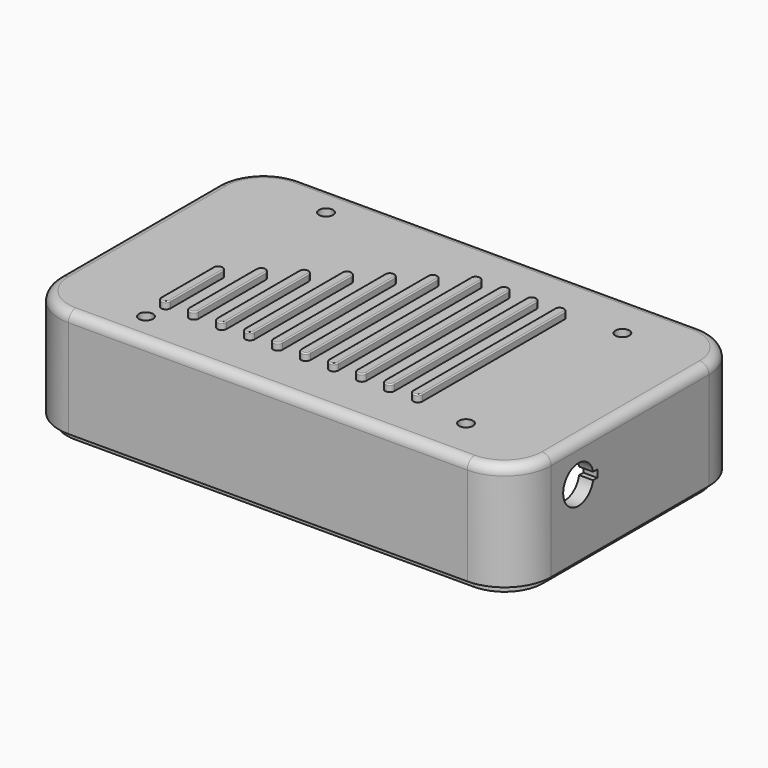
from build123d import *

# Parameters (mm, degrees)
PAD004_DEPTH    = 20
PAD005_DEPTH    = 1.75
PAD006_DEPTH    = 3
SKETCH010_R     = 1.5
POCKET007_DEPTH = 3
SKETCH013_R     = 2.5
POCKET008_DEPTH = 3
POCKET009_DEPTH = 3
PAD009_DEPTH    = 1.5
FILLET_R        = 2
FILLET002_R     = 0.25


with BuildPart() as part:
    # Sketch007 → Pad004 (new body)
    with BuildSketch(Plane.XY.offset(9)):
        with BuildLine():
            Line((3.5, 58.5), (89, 58.5))
            ThreePointArc((99, 48.5), (96.071068, 55.571068), (89, 58.5))
            Line((99, 48.5), (99, 6.25))
            ThreePointArc((89, -3.75), (96.071068, -0.821068), (99, 6.25))
            Line((89, -3.75), (3.5, -3.75))
            ThreePointArc((-6.5, 6.25), (-3.571068, -0.821068), (3.5, -3.75))
            Line((-6.5, 6.25), (-6.5, 48.5))
            ThreePointArc((3.5, 58.5), (-3.571068, 55.571068), (-6.5, 48.5))
        make_face()
        with BuildLine():
            Line((3.5, 55.5), (89, 55.5))
            ThreePointArc((96, 48.5), (93.949747, 53.449747), (89, 55.5))
            Line((96, 48.5), (96, 6.25))
            ThreePointArc((89, -0.75), (93.949747, 1.300253), (96, 6.25))
            Line((89, -0.75), (3.5, -0.75))
            ThreePointArc((-3.5, 6.25), (-1.449747, 1.300253), (3.5, -0.75))
            Line((-3.5, 6.25), (-3.5, 48.5))
            ThreePointArc((3.5, 55.5), (-1.449747, 53.449747), (-3.5, 48.5))
        make_face(mode=Mode.SUBTRACT)
    extrude(amount=PAD004_DEPTH)

    # Sketch008 → Pad005 (new body)
    with BuildSketch(Plane(origin=(0, 0, 9), x_dir=(1, 0, 0), z_dir=(0, 0, -1))):
        with BuildLine():
            Line((3.5, 2), (89, 2))
            ThreePointArc((97.25, -6.25), (94.833631, -0.416369), (89, 2))
            Line((97.25, -6.25), (97.25, -48.5))
            ThreePointArc((89, -56.75), (94.833631, -54.333631), (97.25, -48.5))
            Line((89, -56.75), (3.5, -56.75))
            ThreePointArc((-4.75, -48.5), (-2.333631, -54.333631), (3.5, -56.75))
            Line((-4.75, -48.5), (-4.75, -6.25))
            ThreePointArc((3.5, 2), (-2.333631, -0.416369), (-4.75, -6.25))
        make_face()
        with BuildLine():
            Line((3.5, 0.75), (89, 0.75))
            ThreePointArc((96, -6.25), (93.949747, -1.300253), (89, 0.75))
            Line((96, -6.25), (96, -48.5))
            ThreePointArc((89, -55.5), (93.949747, -53.449747), (96, -48.5))
            Line((89, -55.5), (3.5, -55.5))
            ThreePointArc((-3.5, -48.5), (-1.449747, -53.449747), (3.5, -55.5))
            Line((-3.5, -48.5), (-3.5, -6.25))
            ThreePointArc((3.5, 0.75), (-1.449747, -1.300253), (-3.5, -6.25))
        make_face(mode=Mode.SUBTRACT)
    extrude(amount=PAD005_DEPTH)

    # Sketch009 → Pad006 (new body)
    with BuildSketch(Plane.XY.offset(29)):
        with BuildLine():
            Line((3.5, 58.5), (89, 58.5))
            ThreePointArc((99, 48.5), (96.071068, 55.571068), (89, 58.5))
            Line((99, 48.5), (99, 6.25))
            ThreePointArc((89, -3.75), (96.071068, -0.821068), (99, 6.25))
            Line((89, -3.75), (3.5, -3.75))
            ThreePointArc((-6.5, 6.25), (-3.571068, -0.821068), (3.5, -3.75))
            Line((-6.5, 6.25), (-6.5, 48.5))
            ThreePointArc((3.5, 58.5), (-3.571068, 55.571068), (-6.5, 48.5))
        make_face()
    extrude(amount=PAD006_DEPTH)

    # Sketch010 → Pocket007 (cut)
    with BuildSketch(Plane.XY.offset(32)):
        with Locations((14.6, 3.15)):
            Circle(SKETCH010_R)
        with Locations((14.6, 51.4)):
            Circle(SKETCH010_R)
        with Locations((80.65, 48.25)):
            Circle(SKETCH010_R)
        with Locations((80.65, 6.35)):
            Circle(SKETCH010_R)
    extrude(amount=-POCKET007_DEPTH, mode=Mode.SUBTRACT)

    # Sketch013 → Pocket008 (cut)
    with BuildSketch(Plane(origin=(-6.5, 0, 9), x_dir=(0, -1, 0), z_dir=(-1, 0, 0))):
        with Locations((-9, 4.25)):
            Circle(SKETCH013_R)
    extrude(amount=-POCKET008_DEPTH, mode=Mode.SUBTRACT)

    # Sketch012 → Pocket009 (cut)
    with BuildSketch(Plane(origin=(99, 0, 9), x_dir=(0, 1, 0), z_dir=(1, 0, 0))):
        with BuildLine():
            ThreePointArc((17.470202, 15.3), (9.45, 14.5), (17.470202, 13.7))
            Line((17.470202, 13.7), (18.6, 13.7))
            Line((18.6, 14.5), (18.6, 13.7))
            Line((18.6, 15.3), (18.6, 14.5))
            Line((17.470202, 15.3), (18.6, 15.3))
        make_face()
    extrude(amount=-POCKET009_DEPTH, mode=Mode.SUBTRACT)

    # Sketch015 → Pad009 (new body)
    with BuildSketch(Plane.XY.offset(32)):
        with BuildLine():
            Line((16, 22), (16, 8))
            ThreePointArc((14, 8), (15, 7), (16, 8))
            Line((14, 8), (14, 22))
            ThreePointArc((16, 22), (15, 23), (14, 22))
        make_face()
        with BuildLine():
            Line((22, 26), (22, 8))
            ThreePointArc((20, 8), (21, 7), (22, 8))
            Line((20, 8), (20, 26))
            ThreePointArc((22, 26), (21, 27), (20, 26))
        make_face()
        with BuildLine():
            Line((28, 30), (28, 8))
            ThreePointArc((26, 8), (27, 7), (28, 8))
            Line((26, 8), (26, 30))
            ThreePointArc((28, 30), (27, 31), (26, 30))
        make_face()
        with BuildLine():
            Line((34, 34), (34, 8))
            ThreePointArc((32, 8), (33, 7), (34, 8))
            Line((32, 8), (32, 34))
            ThreePointArc((34, 34), (33, 35), (32, 34))
        make_face()
        with BuildLine():
            Line((40, 38), (40, 8))
            ThreePointArc((38, 8), (39, 7), (40, 8))
            Line((38, 8), (38, 38))
            ThreePointArc((40, 38), (39, 39), (38, 38))
        make_face()
        with BuildLine():
            Line((46, 42), (46, 8))
            ThreePointArc((44, 8), (45, 7), (46, 8))
            Line((44, 8), (44, 42))
            ThreePointArc((46, 42), (45, 43), (44, 42))
        make_face()
        with BuildLine():
            Line((52, 46), (52, 8))
            ThreePointArc((50, 8), (51, 7), (52, 8))
            Line((50, 8), (50, 46))
            ThreePointArc((52, 46), (51, 47), (50, 46))
        make_face()
        with BuildLine():
            Line((58, 46), (58, 8))
            ThreePointArc((56, 8), (57, 7), (58, 8))
            Line((56, 8), (56, 46))
            ThreePointArc((58, 46), (57, 47), (56, 46))
        make_face()
        with BuildLine():
            Line((64, 46), (64, 8))
            ThreePointArc((62, 8), (63, 6.999999), (64, 8))
            Line((62, 8), (62, 46))
            ThreePointArc((64, 46), (63, 47), (62, 46))
        make_face()
        with BuildLine():
            Line((70, 46), (70, 8))
            ThreePointArc((68, 8), (69, 6.999991), (70, 8))
            Line((68, 8), (68, 46))
            ThreePointArc((70, 46), (69, 47), (68, 46))
        make_face()
    extrude(amount=PAD009_DEPTH)

    # Fillet
    fillet_edges = [part.edges().sort_by_distance(p)[0] for p in [
        (46.25, -3.75, 32),
    ]]
    fillet(fillet_edges, radius=FILLET_R)

    # Fillet002
    fillet002_edges = [part.edges().sort_by_distance(p)[0] for p in [
        (20, 17, 33.5),
        (21, 27, 33.5),
        (22, 17, 33.5),
        (21, 7, 33.5),
        (14, 15, 33.5),
        (15, 23, 33.5),
        (16, 15, 33.5),
        (15, 7, 33.5),
        (26, 19, 33.5),
        (27, 31, 33.5),
        (28, 19, 33.5),
        (27, 7, 33.5),
        (32, 21, 33.5),
        (33, 35, 33.5),
        (34, 21, 33.5),
        (33, 7, 33.5),
        (39, 39, 33.5),
        (40, 23, 33.5),
        (39, 7, 33.5),
        (38, 23, 33.5),
        (44, 25, 33.5),
        (45, 43, 33.5),
        (46, 25, 33.5),
        (45, 7, 33.5),
        (50, 27, 33.5),
        (51, 47, 33.5),
        (52, 27, 33.5),
        (51, 7, 33.5),
        (57, 47, 33.5),
        (58, 27, 33.5),
        (57, 7, 33.5),
        (56, 27, 33.5),
        (63, 47, 33.5),
        (64, 27, 33.5),
        (63, 6.999999, 33.5),
        (62, 27, 33.5),
        (69, 47, 33.5),
        (70, 27, 33.5),
        (69, 6.999991, 33.5),
        (68, 27, 33.5),
    ]]
    fillet(fillet002_edges, radius=FILLET002_R)


solid = part.part
